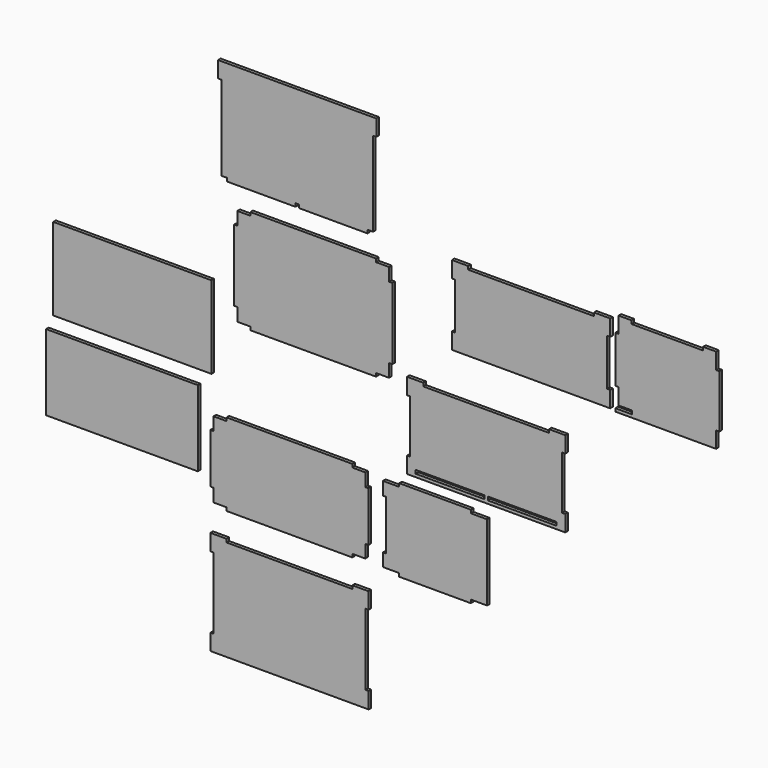
from build123d import *

# Parameters (mm, degrees)
F0_W      = 140
F0_H      = 70
F1_DEPTH  = 3
F2_W      = 146
F2_H      = 76
F3_DEPTH  = 3
F5_DEPTH  = 3
F7_DEPTH  = 3
F9_DEPTH  = 3
F11_DEPTH = 3
F12_W     = 63.5
F12_H     = 3.2
F13_DEPTH = 3
F15_DEPTH = 3
F17_DEPTH = 3
F19_DEPTH = 3


with BuildPart() as f1:
    # F0 (on Front) → F1 (new body)
    with BuildSketch(Plane.XZ):
        with Locations((-9.696564, -14.125969)):
            Rectangle(F0_W, F0_H)
    extrude(amount=F1_DEPTH)


with BuildPart() as f3:
    # F2 (on Front) → F3 (new body)
    with BuildSketch(Plane.XZ):
        with Locations((-0.111669, 72.091474)):
            Rectangle(F2_W, F2_H)
    extrude(amount=F3_DEPTH)


with BuildPart() as f5:
    # F4 (on Front) → F5 (new body)
    with BuildSketch(Plane.XZ):
        Polygon((202.797739, 3.272015), (86.797739, 3.272015), (86.797739, 0.272015), (74.797739, 0.272015), (74.797739, -11.727985), (71.797739, -11.727985), (71.797739, -57.727985), (74.797739, -57.727985), (74.797739, -69.727985), (86.797739, -69.727985), (86.797739, -72.727985), (202.797739, -72.727985), (202.797739, -69.727985), (214.797739, -69.727985), (214.797739, -57.727985), (217.797739, -57.727985), (217.797739, -11.727985), (214.797739, -11.727985), (214.797739, 0.272015), (202.797739, 0.272015), align=None)
    extrude(amount=F5_DEPTH)


with BuildPart() as f7:
    # F6 (on Front) → F7 (new body)
    with BuildSketch(Plane.XZ):
        Polygon((246.111184, -1.341278), (231.111184, -1.341278), (231.111184, -13.341278), (234.111184, -13.341278), (234.111184, -59.341278), (231.111184, -59.341278), (231.111184, -71.341278), (246.111184, -71.341278), (246.111184, -74.341278), (312.111184, -74.341278), (312.111184, -71.341278), (327.111184, -71.341278), (327.111184, -1.341278), (312.111184, -1.341278), (312.111184, 1.658722), (246.111184, 1.658722), align=None)
    extrude(amount=F7_DEPTH)


with BuildPart() as f9:
    # F8 (on Front) → F9 (new body)
    with BuildSketch(Plane.XZ):
        Polygon((86.851429, -95.306903), (71.851429, -95.306903), (71.851429, -110.306903), (74.851429, -110.306903), (74.851429, -176.306903), (71.851429, -176.306903), (71.851429, -191.306903), (217.851429, -191.306903), (217.851429, -176.306903), (214.851429, -176.306903), (214.851429, -110.306903), (217.851429, -110.306903), (217.851429, -95.306903), (202.851429, -95.306903), (202.851429, -98.306903), (86.851429, -98.306903), align=None)
    extrude(amount=F9_DEPTH)


with BuildPart() as f11:
    # F10 (on Front) → F11 (new body)
    with BuildSketch(Plane.XZ):
        Polygon((224.738808, 177.197629), (108.738808, 177.197629), (108.738808, 174.197629), (96.738808, 174.197629), (96.738808, 162.197629), (93.738808, 162.197629), (93.738808, 96.197629), (96.738808, 96.197629), (96.738808, 84.197629), (108.738808, 84.197629), (108.738808, 81.197629), (224.738808, 81.197629), (224.738808, 84.197629), (236.738808, 84.197629), (236.738808, 96.197629), (239.738808, 96.197629), (239.738808, 162.197629), (236.738808, 162.197629), (236.738808, 174.197629), (224.738808, 174.197629), align=None)
    extrude(amount=F11_DEPTH)


with BuildPart() as f13:
    # F12 (on Front) → F13 (new body)
    with BuildSketch(Plane.XZ):
        Polygon((268.262891, 90.458037), (253.262891, 90.458037), (253.262891, 75.458037), (256.262891, 75.458037), (256.262891, 26.458037), (253.262891, 26.458037), (253.262891, 11.458037), (399.262891, 11.458037), (399.262891, 26.458037), (396.262891, 26.458037), (396.262891, 75.458037), (399.262891, 75.458037), (399.262891, 90.458037), (384.262891, 90.458037), (384.262891, 87.458037), (268.262891, 87.458037), align=None)
        with Locations((293.012891, 15.858037)):
            Rectangle(F12_W, F12_H, mode=Mode.SUBTRACT)
        with Locations((359.512891, 15.858037)):
            Rectangle(F12_W, F12_H, mode=Mode.SUBTRACT)
    extrude(amount=F13_DEPTH)


with BuildPart() as f15:
    # F14 (on Front) → F15 (new body)
    with BuildSketch(Plane.XZ):
        Polygon((294.723024, 140.7406), (294.723024, 125.7406), (440.723024, 125.7406), (440.723024, 140.7406), (437.723024, 140.7406), (437.723024, 183.7406), (440.723024, 183.7406), (440.723024, 198.7406), (425.723024, 198.7406), (425.723024, 195.7406), (309.723024, 195.7406), (309.723024, 198.7406), (294.723024, 198.7406), (294.723024, 183.7406), (297.723024, 183.7406), (297.723024, 140.7406), align=None)
    extrude(amount=F15_DEPTH)


with BuildPart() as f17:
    # F16 (on Front) → F17 (new body)
    with BuildSketch(Plane.XZ):
        Polygon((460.391923, 203.601332), (448.391923, 203.601332), (448.391923, 188.601332), (445.391923, 188.601332), (445.391923, 145.601332), (448.391923, 145.601332), (448.391923, 130.601332), (460.7732, 130.601332), (460.802227, 127.401332), (445.391923, 127.401332), (445.391923, 124.601332), (538.391923, 124.601332), (538.391923, 139.601332), (541.391923, 139.601332), (541.391923, 188.601332), (538.391923, 188.601332), (538.391923, 203.601332), (526.391923, 203.601332), (526.391923, 200.601332), (460.391923, 200.601332), align=None)
    extrude(amount=F17_DEPTH)


with BuildPart() as f19:
    # F18 (on Front) → F19 (new body)
    with BuildSketch(Plane.XZ):
        Polygon((224.939221, 290.994182), (78.939221, 290.994182), (78.939221, 275.994182), (81.939221, 275.994182), (81.939221, 197.994182), (87.039221, 197.994182), (87.039221, 194.994182), (150.339221, 194.994182), (150.339221, 197.994182), (153.539221, 197.994182), (153.539221, 194.994182), (216.839221, 194.994182), (216.839221, 197.994182), (221.939221, 197.994182), (221.939221, 275.994182), (224.939221, 275.994182), align=None)
    extrude(amount=F19_DEPTH)


solid = Compound([f1.part, f3.part, f5.part, f7.part, f9.part, f11.part, f13.part, f15.part, f17.part, f19.part])
